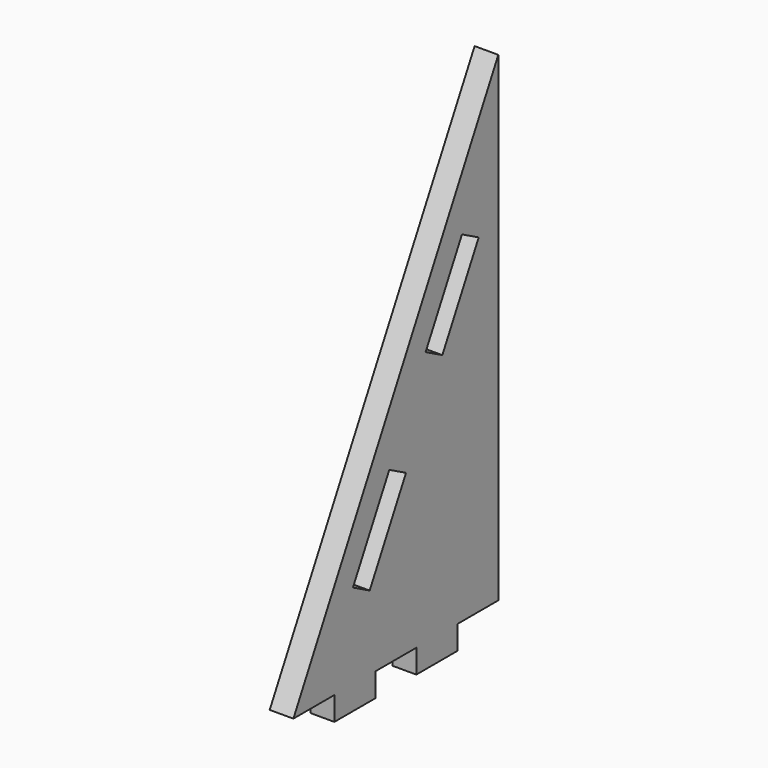
from build123d import *

# Parameters (mm, degrees)
F0_W     = 40.64
F0_H     = 18.796
F1_DEPTH = 18.796


with BuildPart() as f1:
    # F0 (on Right) → F1 (new body)
    with BuildSketch(Plane.YZ):
        Polygon((-40.64, 0), (0, 0), (0, 337.82), (-36.037321, 270.250024), (-19.452615, 261.404847), (-55.485951, 193.842341), (-72.070657, 202.687518), (-108.103994, 135.125012), (-91.519288, 126.279835), (-127.552624, 58.717329), (-144.13733, 67.562506), (-180.170667, 0), (-162.56, 0), (-121.92, 0), (-101.6, 0), (-81.28, 0), align=None)
        Polygon((-36.037321, 270.250024), (0, 337.82), (0, 381), (-203.2, 0), (-180.170667, 0), (-144.13733, 67.562506), (-108.103994, 135.125012), (-72.070657, 202.687518), align=None)
        with Locations((-60.96, -9.398)):
            Rectangle(F0_W, F0_H)
        with Locations((-142.24, -9.398)):
            Rectangle(F0_W, F0_H)
    extrude(amount=F1_DEPTH)


solid = f1.part
